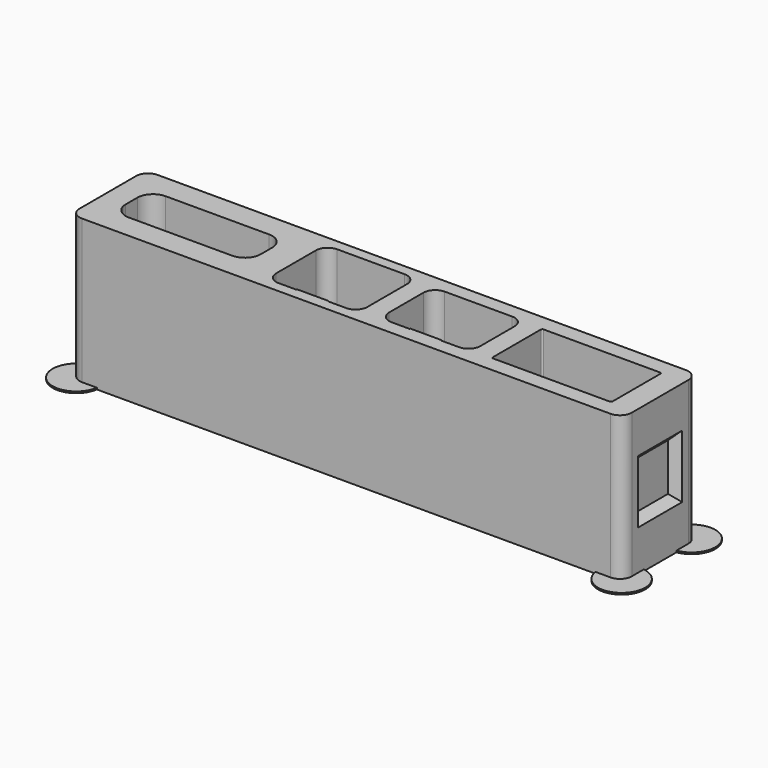
from build123d import *

# Parameters (mm, degrees)
F2_DEPTH  = 18.5
F3_R      = 1.55
F4_DEPTH  = 3.075
F5_W      = 6
F5_H      = 0.5
F6_DEPTH  = 0.1
F5_W_2    = 4
F5_H_2    = 2.25
F7_DEPTH  = 0.6
F8_W      = 4
F8_H      = 0.5
F9_DEPTH  = 0.9
F8_H_2    = 0.47
F10_DEPTH = 0.1
F11_W     = 4
F11_H     = 0.5
F12_DEPTH = 0.9
F11_H_2   = 0.47
F13_DEPTH = 0.1
F14_W     = 4
F14_H     = 0.5
F15_DEPTH = 0.7
F16_W     = 8
F16_H     = 7
F17_DEPTH = 1
F17_TAPER = 45
F18_W     = 8
F18_H     = 7
F19_DEPTH = 1
F19_TAPER = 45
F22_DEPTH = 0.2
F23_ANGLE = 90


with BuildPart() as f2:
    # F1 (on Front) → F2 (new body)
    with BuildSketch(Plane.XZ):
        with BuildLine():
            Line((-33.5725, -6), (33.5725, -6))
            ThreePointArc((33.5725, -6), (34.6331601718, -5.5606601718), (35.0725, -4.5))
            Line((35.0725, -4.5), (35.0725, 4.5))
            ThreePointArc((35.0725, 4.5), (34.6331601718, 5.5606601718), (33.5725, 6))
            Line((33.5725, 6), (-33.5725, 6))
            ThreePointArc((-33.5725, 6), (-34.6331601718, 5.5606601718), (-35.0725, 4.5))
            Line((-35.0725, 4.5), (-35.0725, -4.5))
            ThreePointArc((-35.0725, -4.5), (-34.6331601718, -5.5606601718), (-33.5725, -6))
        make_face()
        with BuildLine():
            ThreePointArc((-14.9225, -0.925), (-15.5082864376, -2.3392135624), (-16.9225, -2.925))
            Line((-16.9225, -2.925), (-30.0725, -2.925))
            ThreePointArc((-30.0725, -2.925), (-31.4867135624, -2.3392135624), (-32.0725, -0.925))
            Line((-32.0725, -0.925), (-32.0725, 0.925))
            ThreePointArc((-32.0725, 0.925), (-31.4867135624, 2.3392135624), (-30.0725, 2.925))
            Line((-30.0725, 2.925), (-16.9225, 2.925))
            ThreePointArc((-16.9225, 2.925), (-15.5082864376, 2.3392135624), (-14.9225, 0.925))
            Line((-14.9225, 0.925), (-14.9225, -0.925))
        make_face(mode=Mode.SUBTRACT)
        with BuildLine():
            Line((-9.6675, 4.65), (-1.0875, 4.65))
            ThreePointArc((-1.0875, 4.65), (-0.0268398282, 4.2106601718), (0.4125, 3.15))
            Line((0.4125, 3.15), (0.4125, -3.15))
            ThreePointArc((0.4125, -3.15), (-0.0268398282, -4.2106601718), (-1.0875, -4.65))
            Line((-1.0875, -4.65), (-9.6675, -4.65))
            ThreePointArc((-9.6675, -4.65), (-10.7281601718, -4.2106601718), (-11.1675, -3.15))
            Line((-11.1675, -3.15), (-11.1675, 3.15))
            ThreePointArc((-11.1675, 3.15), (-10.7281601718, 4.2106601718), (-9.6675, 4.65))
        make_face(mode=Mode.SUBTRACT)
        with BuildLine():
            Line((4.3325, 4.215), (12.9125, 4.215))
            ThreePointArc((12.9125, 4.215), (13.9731601718, 3.7756601718), (14.4125, 2.715))
            Line((14.4125, 2.715), (14.4125, -2.715))
            ThreePointArc((14.4125, -2.715), (13.9731601718, -3.7756601718), (12.9125, -4.215))
            Line((12.9125, -4.215), (4.3325, -4.215))
            ThreePointArc((4.3325, -4.215), (3.2718398282, -3.7756601718), (2.8325, -2.715))
            Line((2.8325, -2.715), (2.8325, 2.715))
            ThreePointArc((2.8325, 2.715), (3.2718398282, 3.7756601718), (4.3325, 4.215))
        make_face(mode=Mode.SUBTRACT)
        with BuildLine():
            ThreePointArc((32.0725, -3.8), (32.0139213562, -3.9414213562), (31.8725, -4))
            Line((31.8725, -4), (17.0725, -4))
            ThreePointArc((17.0725, -4), (16.9310786438, -3.9414213562), (16.8725, -3.8))
            Line((16.8725, -3.8), (16.8725, 3.8))
            ThreePointArc((16.8725, 3.8), (16.9310786438, 3.9414213562), (17.0725, 4))
            Line((17.0725, 4), (31.8725, 4))
            ThreePointArc((31.8725, 4), (32.0139213562, 3.9414213562), (32.0725, 3.8))
            Line((32.0725, 3.8), (32.0725, -3.8))
        make_face(mode=Mode.SUBTRACT)
    extrude(amount=-F2_DEPTH)

    # F3 (on face) → F4 (cut, through all)
    with BuildSketch(Plane.XY.offset(6)):
        with Locations((-23.4975, 13.2)):
            Circle(F3_R)
    extrude(amount=-F4_DEPTH, mode=Mode.SUBTRACT)

    # F5 (on face) → F6 (join)
    with BuildSketch(Plane.XY.offset(-2.925)):
        with Locations((-23.4975, 18.25)):
            Rectangle(F5_W, F5_H)
    extrude(amount=F6_DEPTH)

    # F5 (on face) → F7 (join)
    with BuildSketch(Plane.XY.offset(-2.925)):
        with Locations((-23.4975, 6.575)):
            Rectangle(F5_W_2, F5_H_2)
    extrude(amount=F7_DEPTH)

    # F8 (on face) → F9 (join)
    with BuildSketch(Plane.XY.offset(-4.65)):
        with Locations((-5.3775, 18.25)):
            Rectangle(F8_W, F8_H)
    extrude(amount=F9_DEPTH)

    # F8 (on face) → F10 (join)
    with BuildSketch(Plane.XY.offset(-4.65)):
        with Locations((-5.3775, 0.235)):
            Rectangle(F8_W, F8_H_2)
    extrude(amount=F10_DEPTH)

    # F11 (on face) → F12 (join)
    with BuildSketch(Plane.XY.offset(-4.215)):
        with Locations((8.6225, 18.25)):
            Rectangle(F11_W, F11_H)
    extrude(amount=F12_DEPTH)

    # F11 (on face) → F13 (join)
    with BuildSketch(Plane.XY.offset(-4.215)):
        with Locations((8.6225, 0.235)):
            Rectangle(F11_W, F11_H_2)
    extrude(amount=F13_DEPTH)

    # F14 (on face) → F15 (join)
    with BuildSketch(Plane.XY.offset(-4)):
        with Locations((24.4725, 18.25)):
            Rectangle(F14_W, F14_H)
    extrude(amount=F15_DEPTH)

    # F16 (on face) → F17 (cut)
    with BuildSketch(Plane.YZ.offset(35.0725)):
        with Locations((9.25, 0)):
            Rectangle(F16_W, F16_H)
    extrude(amount=-F17_DEPTH, taper=F17_TAPER, mode=Mode.SUBTRACT)

    # F18 (on face) → F19 (cut)
    with BuildSketch(Plane(origin=(-35.0725, 0, 0), x_dir=(0, -1, 0), z_dir=(-1, 0, 0))):
        with Locations((-9.25, 0)):
            Rectangle(F18_W, F18_H)
    extrude(amount=-F19_DEPTH, taper=F19_TAPER, mode=Mode.SUBTRACT)

    # F21 (on face) → F22 (join)
    with BuildSketch(Plane(origin=(0, 18.5, 0), x_dir=(-1, 0, 0), z_dir=(0, 1, 0))):
        with BuildLine():
            Line((-33.5725, 6), (-31.6655044446, 6))
            ThreePointArc((-31.6655044446, 6), (-36.7544805153, 7.6819805153), (-35.0725, 2.5930044446))
            Line((-35.0725, 2.5930044446), (-35.0725, 4.5))
            ThreePointArc((-35.0725, 4.5), (-34.6331601718, 5.5606601718), (-33.5725, 6))
        make_face()
        with BuildLine():
            Line((-35.0725, -4.5), (-35.0725, -2.5930044446))
            ThreePointArc((-35.0725, -2.5930044446), (-36.7544805153, -7.6819805153), (-31.6655044446, -6))
            Line((-31.6655044446, -6), (-33.5725, -6))
            ThreePointArc((-33.5725, -6), (-34.6331601718, -5.5606601718), (-35.0725, -4.5))
        make_face()
        with BuildLine():
            ThreePointArc((37.6331601718, 5.5606601718), (34.8534245792, 8.5525631767), (31.6655044446, 6))
            Line((31.6655044446, 6), (33.5725, 6))
            ThreePointArc((33.5725, 6), (34.6331601718, 5.5606601718), (35.0725, 4.5))
            Line((35.0725, 4.5), (35.0725, 2.5930044446))
            ThreePointArc((35.0725, 2.5930044446), (36.9045055313, 3.6008157245), (37.6331601718, 5.5606601718))
        make_face()
        with BuildLine():
            ThreePointArc((37.6331601718, -5.5606601718), (36.9045055313, -3.6008157245), (35.0725, -2.5930044446))
            Line((35.0725, -2.5930044446), (35.0725, -4.5))
            ThreePointArc((35.0725, -4.5), (34.6331601718, -5.5606601718), (33.5725, -6))
            Line((33.5725, -6), (31.6655044446, -6))
            ThreePointArc((31.6655044446, -6), (34.8534245792, -8.5525631767), (37.6331601718, -5.5606601718))
        make_face()
    extrude(amount=-F22_DEPTH)


with BuildPart() as f2_1:
    # F23: moved
    add(f2.part.rotate(Axis((0, 18.5, 6), (-1, 0, 0)), F23_ANGLE))


solid = f2_1.part
